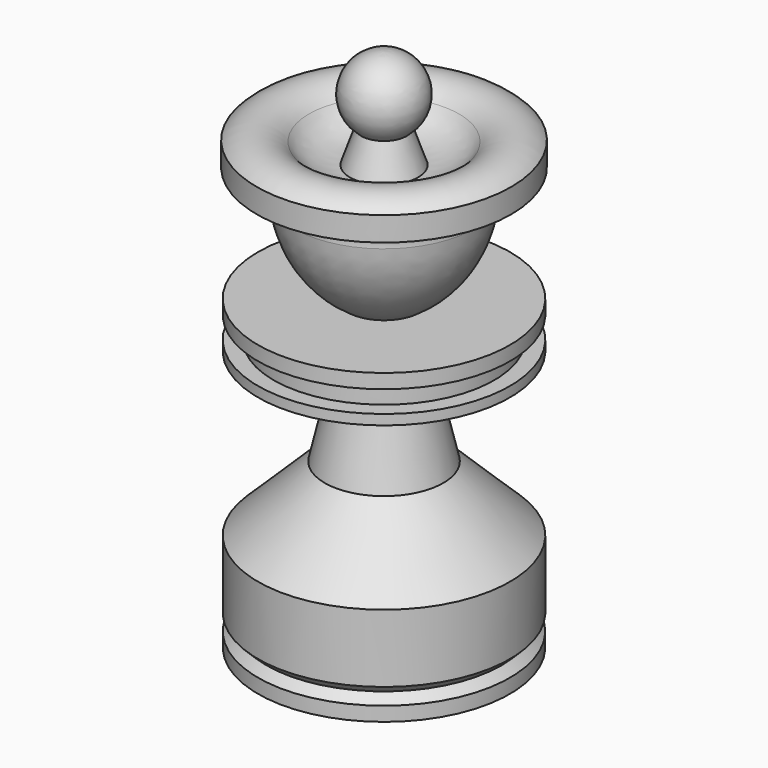
from build123d import *


with BuildPart() as f1:
    # F0 (on Front) → F1 (revolve)
    with BuildSketch(Plane.XZ):
        with BuildLine():
            Line((-13.210637, 0), (0, 0))
            Line((0, 0), (0, 2.366082))
            Line((0, 2.366082), (0, 55.046094))
            ThreePointArc((0, 55.046094), (-3.712833, 52.38778), (-2.392571, 48.016433))
            Line((-2.392571, 48.016433), (-3.574376, 44.5753))
            ThreePointArc((-3.574376, 44.5753), (-5.988798, 45.1124), (-7.869933, 46.7184))
            ThreePointArc((-7.869933, 46.7184), (-10.57477, 48.016433), (-13.347294, 46.870072))
            Line((-13.347294, 46.870072), (-13.347294, 44.336937))
            ThreePointArc((-13.347294, 44.336937), (-10.558803, 44.262814), (-9.417882, 41.717332))
            ThreePointArc((-9.417882, 41.717332), (-7.78309, 36.307093), (-3.8708, 32.228218))
            Line((-3.8708, 32.228218), (-13.218, 32.228218))
            Line((-13.218, 32.228218), (-13.218, 30.729618))
            Line((-13.218, 30.729618), (-11.569862, 30.729618))
            Line((-11.569862, 30.729618), (-11.569862, 28.440819))
            Line((-11.569862, 28.440819), (-13.218, 28.440819))
            Line((-13.218, 28.440819), (-13.218, 27.382801))
            Line((-13.218, 27.382801), (-3.879663, 27.382801))
            Line((-3.879663, 27.382801), (-6.214821, 17.208187))
            Line((-6.214821, 17.208187), (-13.218, 10.364903))
            Line((-13.218, 10.364903), (-13.218, 3.230359))
            Line((-13.218, 3.230359), (-12.346323, 2.366082))
            Line((-12.346323, 2.366082), (-13.210637, 1.494368))
            Line((-13.210637, 1.494368), (-13.210637, 0))
        make_face()
    revolve(axis=Axis((0, 0, 27.523047), (0, 0, -1)))


solid = f1.part
